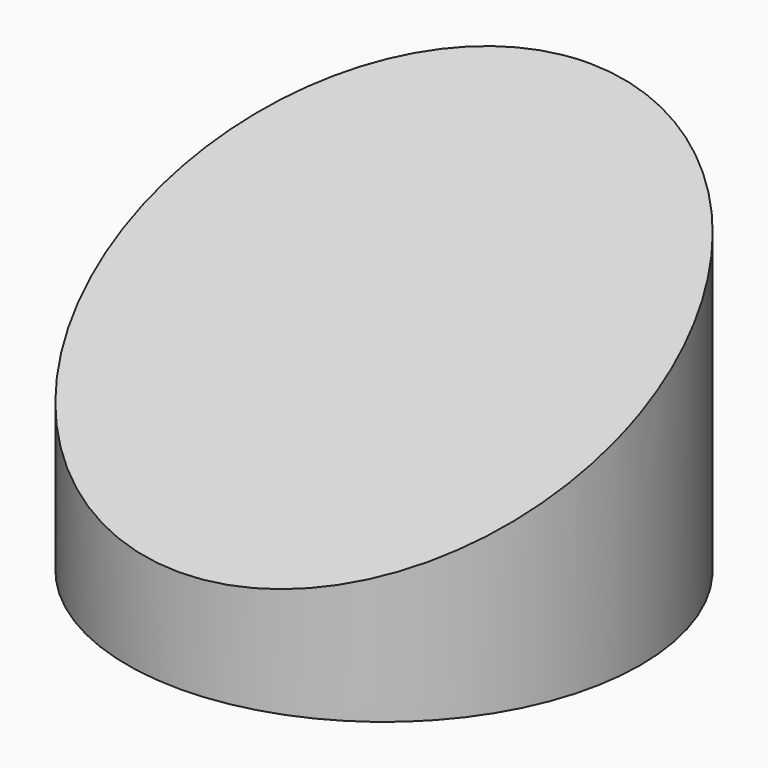
from build123d import *

# Parameters (mm, degrees)
F0_R          = 22.225
F1_DEPTH      = 38.1
F3_DEPTH      = 22.226
F3_DEPTH_BACK = 22.226


with BuildPart() as f1:
    # F0 (on Top) → F1 (new body)
    with BuildSketch(Plane.XY):
        Circle(F0_R)
    extrude(amount=F1_DEPTH)

    # F2 (on Right) → F3 (cut, two sides)
    with BuildSketch(Plane.YZ) as f3_sk:
        Polygon((-22.225, 49.2613017559), (-22.225, 8.89), (64.3515360055, 49.2613017559), align=None)
    extrude(amount=-F3_DEPTH, mode=Mode.SUBTRACT)
    extrude(f3_sk.sketch, amount=F3_DEPTH_BACK, mode=Mode.SUBTRACT)


solid = f1.part
